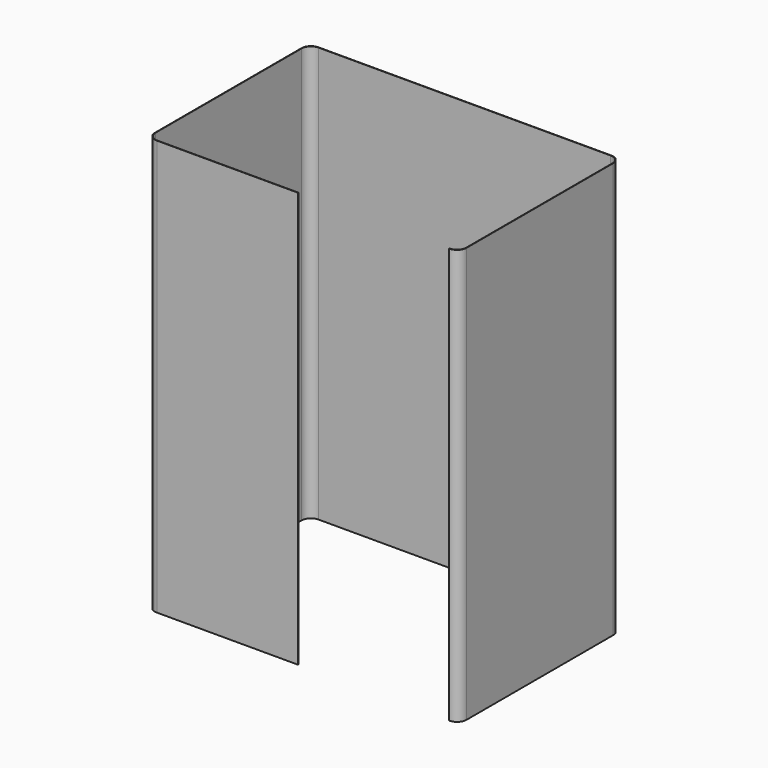
from build123d import *

# Parameters (mm, degrees)
F1_DEPTH = 2200


with BuildPart() as f1:
    # F0 (on Top) → F1 (new body)
    with BuildSketch(Plane.XY):
        with BuildLine():
            ThreePointArc((825, 485), (810.355339, 520.355339), (775, 535))
            Line((775, 535), (-775, 535))
            ThreePointArc((-775, 535), (-810.355339, 520.355339), (-825, 485))
            Line((-825, 485), (-825, -485))
            ThreePointArc((-825, -485), (-810.355339, -520.355339), (-775, -535))
            Line((-775, -535), (-27, -535))
            Line((-27, -535), (-27, -533))
            Line((-27, -533), (-773, -533))
            ThreePointArc((-773, -533), (-808.355339, -518.355339), (-823, -483))
            Line((-823, -483), (-823, 483))
            ThreePointArc((-823, 483), (-808.355339, 518.355339), (-773, 533))
            Line((-773, 533), (773, 533))
            ThreePointArc((773, 533), (808.355339, 518.355339), (823, 483))
            Line((823, 483), (823, -483))
            ThreePointArc((823, -483), (808.355339, -518.355339), (773, -533))
            Line((773, -533), (772.985399, -535))
            Line((772.985399, -535), (775, -535))
            ThreePointArc((775, -535), (810.355339, -520.355339), (825, -485))
            Line((825, -485), (825, 485))
        make_face()
    extrude(amount=F1_DEPTH)


solid = f1.part
